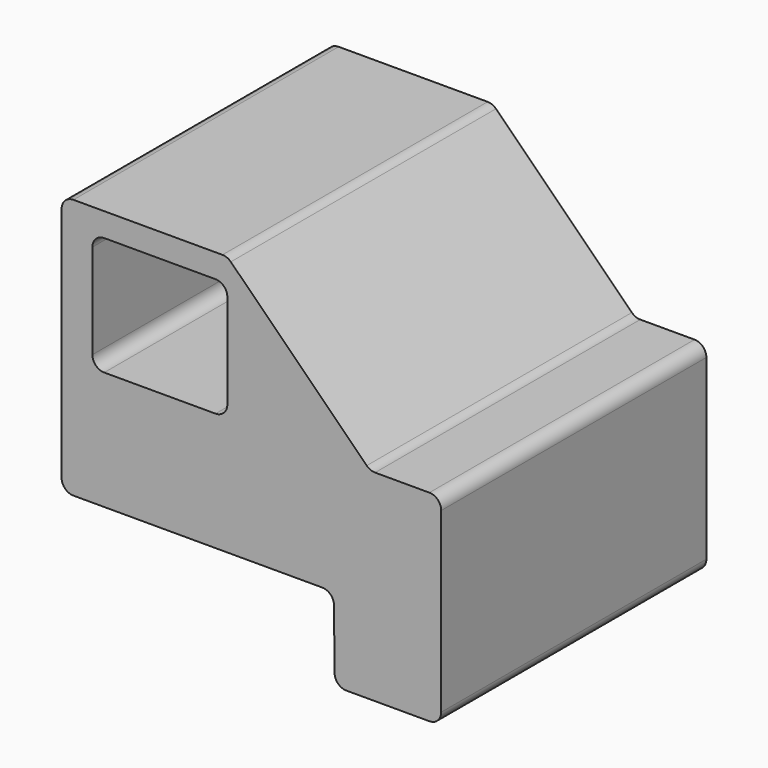
from build123d import *

# Parameters (mm, degrees)
F1_DEPTH = 70
F3_DEPTH = 140.001
F4_R     = 5


with BuildPart() as f1:
    # F0 (on Front) → F1 (new body, symmetric)
    with BuildSketch(Plane.XZ):
        Polygon((-70, 142.023449), (-70, 32.023449), (45, 32.023449), (45.334238, -2.976551), (90.334238, -2.976551), (90.334238, 82.023449), (60.334238, 82.023449), (0, 142.023449), align=None)
    extrude(amount=F1_DEPTH, both=True)

    # F2 (on face) → F3 (cut, through all)
    with BuildSketch(Plane(origin=(0, 70, 0), x_dir=(-1, 0, 0), z_dir=(0, 1, 0))):
        with BuildLine():
            Line((52, 132.023449), (5, 132.023449))
            ThreePointArc((5, 132.023449), (1.464466, 130.558983), (0, 127.023449))
            Line((0, 127.023449), (0, 87.023449))
            ThreePointArc((0, 87.023449), (1.464466, 83.487915), (5, 82.023449))
            Line((5, 82.023449), (52, 82.023449))
            ThreePointArc((52, 82.023449), (55.535534, 83.487915), (57, 87.023449))
            Line((57, 87.023449), (57, 127.023449))
            ThreePointArc((57, 127.023449), (55.535534, 130.558983), (52, 132.023449))
        make_face()
    extrude(amount=-F3_DEPTH, mode=Mode.SUBTRACT)

    # F4
    f4_edges = [f1.edges().sort_by_distance(p)[0] for p in [
        (0, 0, 142.023449),
        (60.334238, 0, 82.023449),
        (90.334238, 0, 82.023449),
        (90.334238, 0, -2.976551),
        (45.334238, 0, -2.976551),
        (45, 0, 32.023449),
        (-70, 0, 32.023449),
        (-70, 0, 142.023449),
    ]]
    fillet(f4_edges, radius=F4_R)


solid = f1.part
